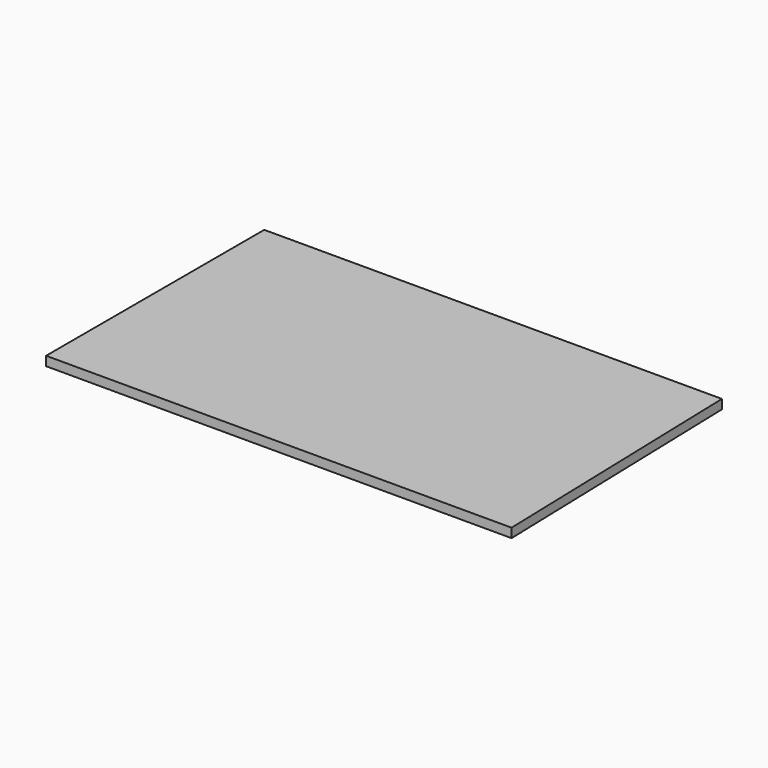
from build123d import *

# Parameters (mm, degrees)
PAD_DEPTH = 5


with BuildPart() as part:
    # Sketch → Pad (new body)
    with BuildSketch(Plane.XY):
        Polygon((0, 20.547499), (-247.900177, 20.547499), (-247.900177, -127.148323), (4.227076, -127.148323), align=None)
    extrude(amount=-PAD_DEPTH)


with BuildPart() as part_1:
    # Body placement: moved
    add(part.part.moved(Location((247.900177, 127.148323, 0))))


solid = part_1.part
